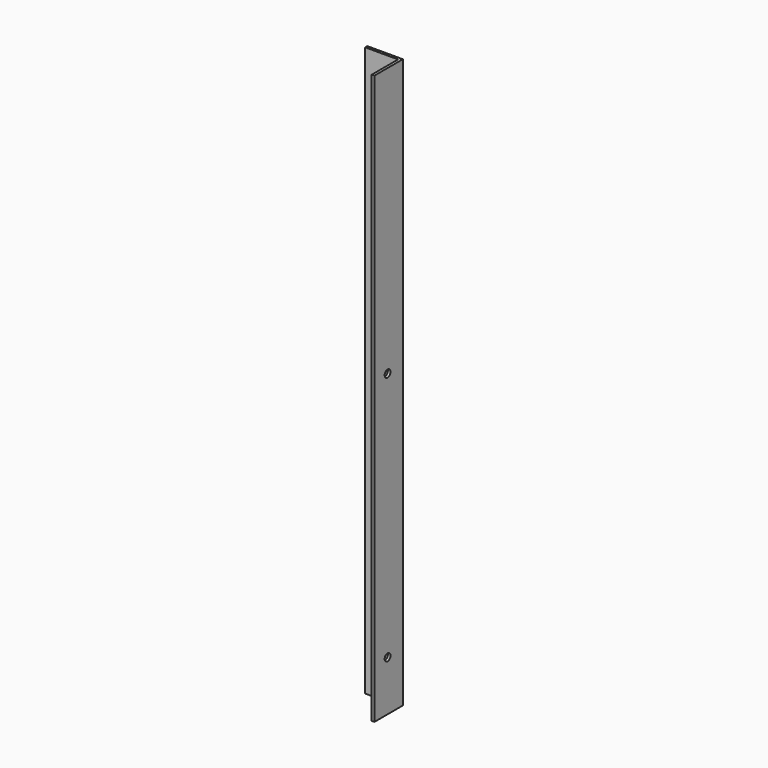
from build123d import *

# Parameters (mm, degrees)
BOX009_W      = 20
BOX009_H      = 20
BOX009_DEPTH  = 320
BOX008_W      = 20
BOX008_H      = 20
BOX008_DEPTH  = 320
SKETCH007_R   = 2.05
HOLE002_DEPTH = 1.501
SKETCH017_R   = 2.05
HOLE010_DEPTH = 1.501


with BuildPart() as cut018:
    # Box009 → Box009 (new body)
    with BuildSketch(Plane(origin=(1.5, -1.5, 0), x_dir=(1, 0, 0), z_dir=(0, 0, 1))):
        with Locations((10, 10)):
            Rectangle(BOX009_W, BOX009_H)
    extrude(amount=BOX009_DEPTH)


with BuildPart() as vertical_back_body:
    # Box008 → Box008 (new body)
    with BuildSketch(Plane.XY):
        with Locations((10, 10)):
            Rectangle(BOX008_W, BOX008_H)
    extrude(amount=BOX008_DEPTH)

    # Cut004: cut Cut018
    add(cut018.part, mode=Mode.SUBTRACT)


with BuildPart() as vertical_back_body_1:
    # Cut004 placement: moved
    add(vertical_back_body.part.moved(Location((0, 320, 0))))


with BuildPart() as vertical_back_body_2:
    # BaseFeature002 placement: moved
    add(vertical_back_body_1.part.moved(Location((0, -320, 0))))

    # Sketch007 → Hole002 (cut, through all)
    with BuildSketch(Plane.YZ.offset(1.5)):
        with Locations((9.25, 28.25)):
            Circle(SKETCH007_R)
        with Locations((9.25, 168.75)):
            Circle(SKETCH007_R)
    extrude(amount=-HOLE002_DEPTH, mode=Mode.SUBTRACT)

    # Sketch017 → Hole010 (cut, through all)
    with BuildSketch(Plane.XZ.offset(-18.5)):
        with Locations((10.75, 284.75)):
            Circle(SKETCH017_R)
        with Locations((11.5, 29.75)):
            Circle(SKETCH017_R)
    extrude(amount=-HOLE010_DEPTH, mode=Mode.SUBTRACT)


with BuildPart() as vertical_back_body_3:
    # Body002 placement: moved
    add(vertical_back_body_2.part.moved(Location((0, 300, 0))))


with BuildPart() as vertical_back_left_mirror:
    # Part__Mirroring: instance of vertical_back_body
    add(vertical_back_body_3.part.mirror(Plane(origin=(1.5e-05, 310, 160), x_dir=(0, -1, 0), z_dir=(1, 0, 0))))


with BuildPart() as vertical_back_left_mirror_1:
    # Part__Mirroring placement: moved
    add(vertical_back_left_mirror.part.moved(Location((640, 0, 0))))


solid = vertical_back_left_mirror_1.part
